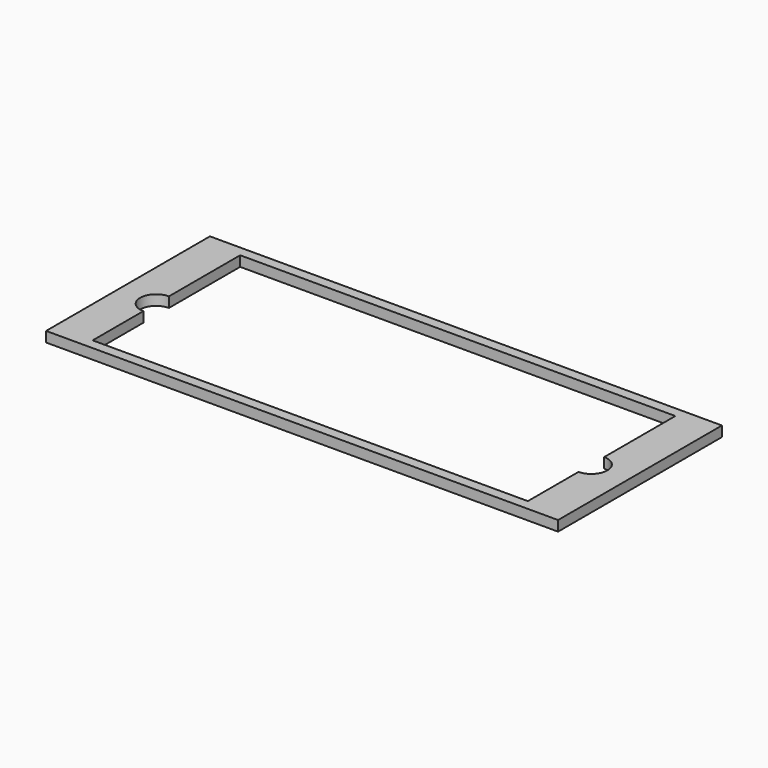
from build123d import *

# Parameters (mm, degrees)
F0_W     = 2000
F0_H     = 800
F1_DEPTH = 40


with BuildPart() as f1:
    # F0 (on Top) → F1 (new body)
    with BuildSketch(Plane.XY):
        Rectangle(F0_W, F0_H)
        with BuildLine():
            Line((850, -360), (-850, -360))
            Line((-850, -360), (-850, -112.5))
            ThreePointArc((-850, -112.5), (-912.5, -50), (-850, 12.5))
            Line((-850, 12.5), (-850, 360))
            Line((-850, 360), (850, 360))
            Line((850, 360), (850, 12.65))
            ThreePointArc((850, 12.65), (912.65, -50), (850, -112.65))
            Line((850, -112.65), (850, -360))
        make_face(mode=Mode.SUBTRACT)
    extrude(amount=F1_DEPTH)


solid = f1.part
